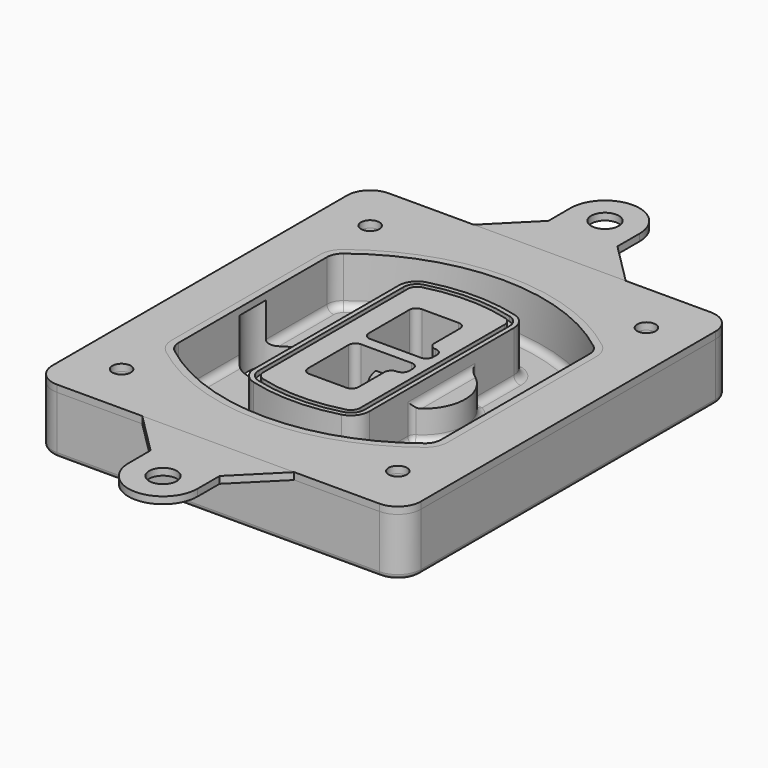
from build123d import *

# Parameters (mm, degrees)
F0_R      = 4
F1_DEPTH  = 25
F2_DEPTH  = 3
F3_DEPTH  = 18
F5_DEPTH  = 21
F6_DEPTH  = 2
F8_DEPTH  = 20
F9_DEPTH  = 16
F10_DEPTH = 25
F7_R      = 6
F7_R_2    = 4
F11_DEPTH = 6
F13_DEPTH = 9
F14_R     = 3
F15_R     = 2
F16_R     = 4
F18_DEPTH = 3
F17_R     = 6


with BuildPart() as f1:
    # F0 (on Top) → F1 (new body)
    with BuildSketch(Plane.XY):
        with BuildLine():
            ThreePointArc((-80, -80), (-77.0710678119, -87.0710678119), (-70, -90))
            Line((-70, -90), (70, -90))
            ThreePointArc((70, -90), (77.0710678119, -87.0710678119), (80, -80))
            Line((80, -80), (80, 80))
            ThreePointArc((80, 80), (77.0710678119, 87.0710678119), (70, 90))
            Line((70, 90), (-70, 90))
            ThreePointArc((-70, 90), (-77.0710678119, 87.0710678119), (-80, 80))
            Line((-80, 80), (-80, -80))
        make_face()
        with Locations((-60, -67.5)):
            Circle(F0_R, mode=Mode.SUBTRACT)
        with Locations((60, -67.5)):
            Circle(F0_R, mode=Mode.SUBTRACT)
        with Locations((-60, 67.5)):
            Circle(F0_R, mode=Mode.SUBTRACT)
        with BuildLine():
            ThreePointArc((-64, 40.2934422872), (-62.5820384798, 46.4328484224), (-58.6153846154, 51.3286200352))
            ThreePointArc((-58.6153846154, 51.3286200352), (0, 71.5), (58.6153846154, 51.3286200352))
            ThreePointArc((58.6153846154, 51.3286200352), (62.5820384798, 46.4328484224), (64, 40.2934422872))
            Line((64, 40.2934422872), (64, -40.2934422872))
            ThreePointArc((64, -40.2934422872), (62.5820384798, -46.4328484224), (58.6153846154, -51.3286200352))
            ThreePointArc((58.6153846154, -51.3286200352), (0, -71.5), (-58.6153846154, -51.3286200352))
            ThreePointArc((-58.6153846154, -51.3286200352), (-62.5820384798, -46.4328484224), (-64, -40.2934422872))
            Line((-64, -40.2934422872), (-64, 40.2934422872))
        make_face(mode=Mode.SUBTRACT)
        with Locations((60, 67.5)):
            Circle(F0_R, mode=Mode.SUBTRACT)
        with BuildLine():
            ThreePointArc((58.6153846154, 51.3286200352), (0, 71.5), (-58.6153846154, 51.3286200352))
            ThreePointArc((-58.6153846154, 51.3286200352), (-62.5820384798, 46.4328484224), (-64, 40.2934422872))
            Line((-64, 40.2934422872), (-64, -40.2934422872))
            ThreePointArc((-64, -40.2934422872), (-62.5820384798, -46.4328484224), (-58.6153846154, -51.3286200352))
            ThreePointArc((-58.6153846154, -51.3286200352), (0, -71.5), (58.6153846154, -51.3286200352))
            ThreePointArc((58.6153846154, -51.3286200352), (62.5820384798, -46.4328484224), (64, -40.2934422872))
            Line((64, -40.2934422872), (64, 40.2934422872))
            ThreePointArc((64, 40.2934422872), (62.5820384798, 46.4328484224), (58.6153846154, 51.3286200352))
        make_face()
        with BuildLine():
            Line((-60, -40.2934422872), (-60, 40.2934422872))
            ThreePointArc((-60, 40.2934422872), (-58.9871703427, 44.6787323838), (-56.1538461538, 48.1757121072))
            ThreePointArc((-56.1538461538, 48.1757121072), (0, 67.5), (56.1538461538, 48.1757121072))
            ThreePointArc((56.1538461538, 48.1757121072), (58.9871703427, 44.6787323838), (60, 40.2934422872))
            Line((60, 40.2934422872), (60, -40.2934422872))
            ThreePointArc((60, -40.2934422872), (58.9871703427, -44.6787323838), (56.1538461538, -48.1757121072))
            ThreePointArc((56.1538461538, -48.1757121072), (0, -67.5), (-56.1538461538, -48.1757121072))
            ThreePointArc((-56.1538461538, -48.1757121072), (-58.9871703427, -44.6787323838), (-60, -40.2934422872))
        make_face(mode=Mode.SUBTRACT)
        with BuildLine():
            ThreePointArc((-56.1538461538, 48.1757121072), (-58.9871703427, 44.6787323838), (-60, 40.2934422872))
            Line((-60, 40.2934422872), (-60, -40.2934422872))
            ThreePointArc((-60, -40.2934422872), (-58.9871703427, -44.6787323838), (-56.1538461538, -48.1757121072))
            ThreePointArc((-56.1538461538, -48.1757121072), (0, -67.5), (56.1538461538, -48.1757121072))
            ThreePointArc((56.1538461538, -48.1757121072), (58.9871703427, -44.6787323838), (60, -40.2934422872))
            Line((60, -40.2934422872), (60, 40.2934422872))
            ThreePointArc((60, 40.2934422872), (58.9871703427, 44.6787323838), (56.1538461538, 48.1757121072))
            ThreePointArc((56.1538461538, 48.1757121072), (0, 67.5), (-56.1538461538, 48.1757121072))
        make_face()
        with BuildLine():
            ThreePointArc((54.3076923077, 45.8110311612), (56.2910192399, 43.3631453548), (57, 40.2934422872))
            Line((57, 40.2934422872), (57, -40.2934422872))
            ThreePointArc((57, -40.2934422872), (56.2910192399, -43.3631453548), (54.3076923077, -45.8110311612))
            ThreePointArc((54.3076923077, -45.8110311612), (0, -64.5), (-54.3076923077, -45.8110311612))
            ThreePointArc((-54.3076923077, -45.8110311612), (-56.2910192399, -43.3631453548), (-57, -40.2934422872))
            Line((-57, -40.2934422872), (-57, 40.2934422872))
            ThreePointArc((-57, 40.2934422872), (-56.2910192399, 43.3631453548), (-54.3076923077, 45.8110311612))
            ThreePointArc((-54.3076923077, 45.8110311612), (0, 64.5), (54.3076923077, 45.8110311612))
        make_face(mode=Mode.SUBTRACT)
        with BuildLine():
            Line((57, -40.2934422872), (57, 40.2934422872))
            ThreePointArc((57, 40.2934422872), (56.2910192399, 43.3631453548), (54.3076923077, 45.8110311612))
            ThreePointArc((54.3076923077, 45.8110311612), (0, 64.5), (-54.3076923077, 45.8110311612))
            ThreePointArc((-54.3076923077, 45.8110311612), (-56.2910192399, 43.3631453548), (-57, 40.2934422872))
            Line((-57, 40.2934422872), (-57, -40.2934422872))
            ThreePointArc((-57, -40.2934422872), (-56.2910192399, -43.3631453548), (-54.3076923077, -45.8110311612))
            ThreePointArc((-54.3076923077, -45.8110311612), (0, -64.5), (54.3076923077, -45.8110311612))
            ThreePointArc((54.3076923077, -45.8110311612), (56.2910192399, -43.3631453548), (57, -40.2934422872))
        make_face()
    extrude(amount=-F1_DEPTH)

    # F0 (on Top) → F2 (join)
    with BuildSketch(Plane.XY):
        with BuildLine():
            ThreePointArc((-56.1538461538, 48.1757121072), (-58.9871703427, 44.6787323838), (-60, 40.2934422872))
            Line((-60, 40.2934422872), (-60, -40.2934422872))
            ThreePointArc((-60, -40.2934422872), (-58.9871703427, -44.6787323838), (-56.1538461538, -48.1757121072))
            ThreePointArc((-56.1538461538, -48.1757121072), (0, -67.5), (56.1538461538, -48.1757121072))
            ThreePointArc((56.1538461538, -48.1757121072), (58.9871703427, -44.6787323838), (60, -40.2934422872))
            Line((60, -40.2934422872), (60, 40.2934422872))
            ThreePointArc((60, 40.2934422872), (58.9871703427, 44.6787323838), (56.1538461538, 48.1757121072))
            ThreePointArc((56.1538461538, 48.1757121072), (0, 67.5), (-56.1538461538, 48.1757121072))
        make_face()
        with BuildLine():
            ThreePointArc((54.3076923077, 45.8110311612), (56.2910192399, 43.3631453548), (57, 40.2934422872))
            Line((57, 40.2934422872), (57, -40.2934422872))
            ThreePointArc((57, -40.2934422872), (56.2910192399, -43.3631453548), (54.3076923077, -45.8110311612))
            ThreePointArc((54.3076923077, -45.8110311612), (0, -64.5), (-54.3076923077, -45.8110311612))
            ThreePointArc((-54.3076923077, -45.8110311612), (-56.2910192399, -43.3631453548), (-57, -40.2934422872))
            Line((-57, -40.2934422872), (-57, 40.2934422872))
            ThreePointArc((-57, 40.2934422872), (-56.2910192399, 43.3631453548), (-54.3076923077, 45.8110311612))
            ThreePointArc((-54.3076923077, 45.8110311612), (0, 64.5), (54.3076923077, 45.8110311612))
        make_face(mode=Mode.SUBTRACT)
    extrude(amount=F2_DEPTH)

    # F0 (on Top) → F3 (cut)
    with BuildSketch(Plane.XY):
        with BuildLine():
            Line((57, -40.2934422872), (57, 40.2934422872))
            ThreePointArc((57, 40.2934422872), (56.2910192399, 43.3631453548), (54.3076923077, 45.8110311612))
            ThreePointArc((54.3076923077, 45.8110311612), (0, 64.5), (-54.3076923077, 45.8110311612))
            ThreePointArc((-54.3076923077, 45.8110311612), (-56.2910192399, 43.3631453548), (-57, 40.2934422872))
            Line((-57, 40.2934422872), (-57, -40.2934422872))
            ThreePointArc((-57, -40.2934422872), (-56.2910192399, -43.3631453548), (-54.3076923077, -45.8110311612))
            ThreePointArc((-54.3076923077, -45.8110311612), (0, -64.5), (54.3076923077, -45.8110311612))
            ThreePointArc((54.3076923077, -45.8110311612), (56.2910192399, -43.3631453548), (57, -40.2934422872))
        make_face()
    extrude(amount=-F3_DEPTH, mode=Mode.SUBTRACT)

    # F4 (on face) → F5 (join, through all)
    with BuildSketch(Plane.XY.offset(3)):
        with BuildLine():
            ThreePointArc((-25, -39.2465276821), (-23.3511545998, -44.1109737193), (-19.0842911877, -46.9702398883))
            ThreePointArc((-19.0842911877, -46.9702398883), (0, -49.5), (19.0842911877, -46.9702398883))
            ThreePointArc((19.0842911877, -46.9702398883), (23.3511545998, -44.1109737193), (25, -39.2465276821))
            Line((25, -39.2465276821), (25, 39.2465276821))
            ThreePointArc((25, 39.2465276821), (23.3511545998, 44.1109737193), (19.0842911877, 46.9702398883))
            ThreePointArc((19.0842911877, 46.9702398883), (0, 49.5), (-19.0842911877, 46.9702398883))
            ThreePointArc((-19.0842911877, 46.9702398883), (-23.3511545998, 44.1109737193), (-25, 39.2465276821))
            Line((-25, 39.2465276821), (-25, -39.2465276821))
        make_face()
        with BuildLine():
            ThreePointArc((18.5632183908, 45.0393118368), (21.7633659499, 42.89486221), (23, 39.2465276821))
            Line((23, 39.2465276821), (23, -39.2465276821))
            ThreePointArc((23, -39.2465276821), (21.7633659499, -42.89486221), (18.5632183908, -45.0393118368))
            ThreePointArc((18.5632183908, -45.0393118368), (0, -47.5), (-18.5632183908, -45.0393118368))
            ThreePointArc((-18.5632183908, -45.0393118368), (-21.7633659499, -42.89486221), (-23, -39.2465276821))
            Line((-23, -39.2465276821), (-23, 39.2465276821))
            ThreePointArc((-23, 39.2465276821), (-21.7633659499, 42.89486221), (-18.5632183908, 45.0393118368))
            ThreePointArc((-18.5632183908, 45.0393118368), (0, 47.5), (18.5632183908, 45.0393118368))
        make_face(mode=Mode.SUBTRACT)
        with BuildLine():
            Line((23, -39.2465276821), (23, 39.2465276821))
            ThreePointArc((23, 39.2465276821), (21.7633659499, 42.89486221), (18.5632183908, 45.0393118368))
            ThreePointArc((18.5632183908, 45.0393118368), (0, 47.5), (-18.5632183908, 45.0393118368))
            ThreePointArc((-18.5632183908, 45.0393118368), (-21.7633659499, 42.89486221), (-23, 39.2465276821))
            Line((-23, 39.2465276821), (-23, -39.2465276821))
            ThreePointArc((-23, -39.2465276821), (-21.7633659499, -42.89486221), (-18.5632183908, -45.0393118368))
            ThreePointArc((-18.5632183908, -45.0393118368), (0, -47.5), (18.5632183908, -45.0393118368))
            ThreePointArc((18.5632183908, -45.0393118368), (21.7633659499, -42.89486221), (23, -39.2465276821))
        make_face()
        with BuildLine():
            ThreePointArc((18.0421455939, 43.1083837852), (20.1755772999, 41.6787507007), (21, 39.2465276821))
            Line((21, 39.2465276821), (21, -39.2465276821))
            ThreePointArc((21, -39.2465276821), (20.1755772999, -41.6787507007), (18.0421455939, -43.1083837852))
            ThreePointArc((18.0421455939, -43.1083837852), (0, -45.5), (-18.0421455939, -43.1083837852))
            ThreePointArc((-18.0421455939, -43.1083837852), (-20.1755772999, -41.6787507007), (-21, -39.2465276821))
            Line((-21, -39.2465276821), (-21, 39.2465276821))
            ThreePointArc((-21, 39.2465276821), (-20.1755772999, 41.6787507007), (-18.0421455939, 43.1083837852))
            ThreePointArc((-18.0421455939, 43.1083837852), (0, 45.5), (18.0421455939, 43.1083837852))
        make_face(mode=Mode.SUBTRACT)
        with BuildLine():
            Line((21, -39.2465276821), (21, 39.2465276821))
            ThreePointArc((21, 39.2465276821), (20.1755772999, 41.6787507007), (18.0421455939, 43.1083837852))
            ThreePointArc((18.0421455939, 43.1083837852), (0, 45.5), (-18.0421455939, 43.1083837852))
            ThreePointArc((-18.0421455939, 43.1083837852), (-20.1755772999, 41.6787507007), (-21, 39.2465276821))
            Line((-21, 39.2465276821), (-21, -39.2465276821))
            ThreePointArc((-21, -39.2465276821), (-20.1755772999, -41.6787507007), (-18.0421455939, -43.1083837852))
            ThreePointArc((-18.0421455939, -43.1083837852), (0, -45.5), (18.0421455939, -43.1083837852))
            ThreePointArc((18.0421455939, -43.1083837852), (20.1755772999, -41.6787507007), (21, -39.2465276821))
        make_face()
        with BuildLine():
            Line((-8, -2.5), (14, -2.5))
            ThreePointArc((14, -2.5), (16.1213203436, -3.3786796564), (17, -5.5))
            Line((17, -5.5), (17, -7.5))
            ThreePointArc((17, -7.5), (16.1213203436, -9.6213203436), (14, -10.5))
            ThreePointArc((14, -10.5), (11.8786796564, -11.3786796564), (11, -13.5))
            Line((11, -13.5), (11, -27.5))
            ThreePointArc((11, -27.5), (10.1213203436, -29.6213203436), (8, -30.5))
            Line((8, -30.5), (-8, -30.5))
            ThreePointArc((-8, -30.5), (-10.1213203436, -29.6213203436), (-11, -27.5))
            Line((-11, -27.5), (-11, -5.5))
            ThreePointArc((-11, -5.5), (-10.1213203436, -3.3786796564), (-8, -2.5))
        make_face(mode=Mode.SUBTRACT)
        with BuildLine():
            ThreePointArc((-8, 2.5), (-10.1213203436, 3.3786796564), (-11, 5.5))
            Line((-11, 5.5), (-11, 27.5))
            ThreePointArc((-11, 27.5), (-10.1213203436, 29.6213203436), (-8, 30.5))
            Line((-8, 30.5), (8, 30.5))
            ThreePointArc((8, 30.5), (10.1213203436, 29.6213203436), (11, 27.5))
            Line((11, 27.5), (11, 13.5))
            ThreePointArc((11, 13.5), (11.8786796564, 11.3786796564), (14, 10.5))
            ThreePointArc((14, 10.5), (16.1213203436, 9.6213203436), (17, 7.5))
            Line((17, 7.5), (17, 5.5))
            ThreePointArc((17, 5.5), (16.1213203436, 3.3786796564), (14, 2.5))
            Line((14, 2.5), (-8, 2.5))
        make_face(mode=Mode.SUBTRACT)
    extrude(amount=-F5_DEPTH)

    # F4 (on face) → F6 (cut)
    with BuildSketch(Plane.XY.offset(3)):
        with BuildLine():
            Line((23, -39.2465276821), (23, 39.2465276821))
            ThreePointArc((23, 39.2465276821), (21.7633659499, 42.89486221), (18.5632183908, 45.0393118368))
            ThreePointArc((18.5632183908, 45.0393118368), (0, 47.5), (-18.5632183908, 45.0393118368))
            ThreePointArc((-18.5632183908, 45.0393118368), (-21.7633659499, 42.89486221), (-23, 39.2465276821))
            Line((-23, 39.2465276821), (-23, -39.2465276821))
            ThreePointArc((-23, -39.2465276821), (-21.7633659499, -42.89486221), (-18.5632183908, -45.0393118368))
            ThreePointArc((-18.5632183908, -45.0393118368), (0, -47.5), (18.5632183908, -45.0393118368))
            ThreePointArc((18.5632183908, -45.0393118368), (21.7633659499, -42.89486221), (23, -39.2465276821))
        make_face()
        with BuildLine():
            ThreePointArc((18.0421455939, 43.1083837852), (20.1755772999, 41.6787507007), (21, 39.2465276821))
            Line((21, 39.2465276821), (21, -39.2465276821))
            ThreePointArc((21, -39.2465276821), (20.1755772999, -41.6787507007), (18.0421455939, -43.1083837852))
            ThreePointArc((18.0421455939, -43.1083837852), (0, -45.5), (-18.0421455939, -43.1083837852))
            ThreePointArc((-18.0421455939, -43.1083837852), (-20.1755772999, -41.6787507007), (-21, -39.2465276821))
            Line((-21, -39.2465276821), (-21, 39.2465276821))
            ThreePointArc((-21, 39.2465276821), (-20.1755772999, 41.6787507007), (-18.0421455939, 43.1083837852))
            ThreePointArc((-18.0421455939, 43.1083837852), (0, 45.5), (18.0421455939, 43.1083837852))
        make_face(mode=Mode.SUBTRACT)
    extrude(amount=-F6_DEPTH, mode=Mode.SUBTRACT)

    # F7 (on face) → F8 (join)
    with BuildSketch(Plane(origin=(0, 0, -25), x_dir=(1, 0, 0), z_dir=(0, 0, -1))):
        with BuildLine():
            ThreePointArc((3.28842436, 0), (16.7567035675, 13.4682792075), (30.224982775, 0))
            Line((30.224982775, 0), (35.224982775, 0))
            ThreePointArc((35.224982775, 0), (16.7567035675, 18.4682792075), (-1.71157564, 0))
            Line((-1.71157564, 0), (3.28842436, 0))
        make_face()
        with BuildLine():
            Line((3.28842436, 0), (30.224982775, 0))
            ThreePointArc((30.224982775, 0), (16.7567035675, 13.4682792075), (3.28842436, 0))
        make_face()
        with BuildLine():
            ThreePointArc((3.28842436, 0), (16.7567035675, -13.4682792075), (30.224982775, 0))
            Line((30.224982775, 0), (3.28842436, 0))
        make_face()
        with BuildLine():
            Line((35.224982775, 0), (30.224982775, 0))
            ThreePointArc((30.224982775, 0), (16.7567035675, -13.4682792075), (3.28842436, 0))
            Line((3.28842436, 0), (-1.71157564, 0))
            ThreePointArc((-1.71157564, 0), (16.7567035675, -18.4682792075), (35.224982775, 0))
        make_face()
    extrude(amount=-F8_DEPTH)

    # F7 (on face) → F9 (cut)
    with BuildSketch(Plane(origin=(0, 0, -25), x_dir=(1, 0, 0), z_dir=(0, 0, -1))):
        with BuildLine():
            Line((3.28842436, 0), (30.224982775, 0))
            ThreePointArc((30.224982775, 0), (16.7567035675, 13.4682792075), (3.28842436, 0))
        make_face()
        with BuildLine():
            ThreePointArc((3.28842436, 0), (16.7567035675, -13.4682792075), (30.224982775, 0))
            Line((30.224982775, 0), (3.28842436, 0))
        make_face()
    extrude(amount=-F9_DEPTH, mode=Mode.SUBTRACT)

    # F7 (on face) → F10 (cut)
    with BuildSketch(Plane(origin=(0, 0, -25), x_dir=(1, 0, 0), z_dir=(0, 0, -1))):
        with BuildLine():
            Line((-59.0318229325, 0), (-32.0952645175, 0))
            ThreePointArc((-32.0952645175, 0), (-45.563543725, 13.4682792075), (-59.0318229325, 0))
        make_face()
        with BuildLine():
            ThreePointArc((-59.0318229325, 0), (-45.563543725, -13.4682792075), (-32.0952645175, 0))
            Line((-32.0952645175, 0), (-59.0318229325, 0))
        make_face()
    extrude(amount=-F10_DEPTH, mode=Mode.SUBTRACT)

    # F7 (on face) → F11 (cut)
    with BuildSketch(Plane(origin=(0, 0, -25), x_dir=(1, 0, 0), z_dir=(0, 0, -1))):
        with Locations((60, -67.5)):
            Circle(F7_R)
        with Locations((60, -67.5)):
            Circle(F7_R_2, mode=Mode.SUBTRACT)
        with Locations((60, -67.5)):
            Circle(F7_R)
        with Locations((60, -67.5)):
            Circle(F7_R_2, mode=Mode.SUBTRACT)
        with Locations((-60, -67.5)):
            Circle(F7_R)
        with Locations((-60, -67.5)):
            Circle(F7_R_2, mode=Mode.SUBTRACT)
        with Locations((-60, -67.5)):
            Circle(F7_R)
        with Locations((-60, -67.5)):
            Circle(F7_R_2, mode=Mode.SUBTRACT)
        with Locations((-60, 67.5)):
            Circle(F7_R)
        with Locations((-60, 67.5)):
            Circle(F7_R_2, mode=Mode.SUBTRACT)
        with Locations((-60, 67.5)):
            Circle(F7_R)
        with Locations((-60, 67.5)):
            Circle(F7_R_2, mode=Mode.SUBTRACT)
        with Locations((60, 67.5)):
            Circle(F7_R)
        with Locations((60, 67.5)):
            Circle(F7_R_2, mode=Mode.SUBTRACT)
        with Locations((60, 67.5)):
            Circle(F7_R)
        with Locations((60, 67.5)):
            Circle(F7_R_2, mode=Mode.SUBTRACT)
    extrude(amount=-F11_DEPTH, mode=Mode.SUBTRACT)

    # F12 (on face) → F13 (cut, through all)
    with BuildSketch(Plane(origin=(0, 0, -9), x_dir=(1, 0, 0), z_dir=(0, 0, -1))):
        with BuildLine():
            Line((11, 13.5), (11, 17.5481537753))
            ThreePointArc((11, 17.5481537753), (2.5696536419, 11.8239143813), (-1.5415842455, 2.5))
            Line((-1.5415842455, 2.5), (3.5224848595, 2.5))
            ThreePointArc((3.5224848595, 2.5), (6.1857188154, 8.3455872281), (11.2536447004, 12.2927168648))
            ThreePointArc((11.2536447004, 12.2927168648), (11.0640958889, 12.8831798879), (11, 13.5))
        make_face()
        with BuildLine():
            ThreePointArc((11.2536447004, -12.2927168648), (6.1857188154, -8.3455872281), (3.5224848595, -2.5))
            Line((3.5224848595, -2.5), (-1.5415842455, -2.5))
            ThreePointArc((-1.5415842455, -2.5), (2.5696536419, -11.8239143813), (11, -17.5481537753))
            Line((11, -17.5481537753), (11, -13.5))
            ThreePointArc((11, -13.5), (11.0640958889, -12.8831798879), (11.2536447004, -12.2927168648))
        make_face()
        with BuildLine():
            ThreePointArc((11.2536447004, 12.2927168648), (6.1857188154, 8.3455872281), (3.5224848595, 2.5))
            Line((3.5224848595, 2.5), (14, 2.5))
            ThreePointArc((14, 2.5), (16.1213203436, 3.3786796564), (17, 5.5))
            Line((17, 5.5), (17, 7.5))
            ThreePointArc((17, 7.5), (16.1213203436, 9.6213203436), (14, 10.5))
            ThreePointArc((14, 10.5), (12.3601599782, 10.9878446101), (11.2536447004, 12.2927168648))
        make_face()
        with BuildLine():
            Line((14, -2.5), (3.5224848595, -2.5))
            ThreePointArc((3.5224848595, -2.5), (6.1857188154, -8.3455872281), (11.2536447004, -12.2927168648))
            ThreePointArc((11.2536447004, -12.2927168648), (12.3601599782, -10.9878446101), (14, -10.5))
            ThreePointArc((14, -10.5), (16.1213203436, -9.6213203436), (17, -7.5))
            Line((17, -7.5), (17, -5.5))
            ThreePointArc((17, -5.5), (16.1213203436, -3.3786796564), (14, -2.5))
        make_face()
    extrude(amount=F13_DEPTH, mode=Mode.SUBTRACT)

    # F14
    f14_edges = [f1.edges().sort_by_distance(p)[0] for p in [
        (-57, -23.703476, -18),
        (-57, 23.703476, -18),
        (25, 0, -5),
        (25, 16.526506, -11.5),
        (25, -16.526506, -11.5),
        (25, -27.886517, -18),
        (35.224983, 0, -18),
    ]]
    fillet(f14_edges, radius=F14_R)

    # F15
    f15_edges = [f1.edges().sort_by_distance(p)[0] for p in [
        (0, -90, -25),
    ]]
    fillet(f15_edges, radius=F15_R)


with BuildPart() as f18:
    # F16 (on face) → F18 (new body, through all)
    with BuildSketch(Plane.XY):
        with BuildLine():
            Line((-80, 80), (-80, -80))
            ThreePointArc((-80, -80), (-77.0710678119, -87.0710678119), (-70, -90))
            Line((-70, -90), (70, -90))
            ThreePointArc((70, -90), (77.0710678119, -87.0710678119), (80, -80))
            Line((80, -80), (80, 80))
            ThreePointArc((80, 80), (77.0710678119, 87.0710678119), (70, 90))
            Line((70, 90), (-70, 90))
            ThreePointArc((-70, 90), (-77.0710678119, 87.0710678119), (-80, 80))
        make_face()
        with Locations((-60, -67.5)):
            Circle(F16_R, mode=Mode.SUBTRACT)
        with Locations((60, -67.5)):
            Circle(F16_R, mode=Mode.SUBTRACT)
        with Locations((-60, 67.5)):
            Circle(F16_R, mode=Mode.SUBTRACT)
        with BuildLine():
            ThreePointArc((-60, 40.2934422872), (-58.9871703427, 44.6787323838), (-56.1538461538, 48.1757121072))
            ThreePointArc((-56.1538461538, 48.1757121072), (0, 67.5), (56.1538461538, 48.1757121072))
            ThreePointArc((56.1538461538, 48.1757121072), (58.9871703427, 44.6787323838), (60, 40.2934422872))
            Line((60, 40.2934422872), (60, -40.2934422872))
            ThreePointArc((60, -40.2934422872), (58.9871703427, -44.6787323838), (56.1538461538, -48.1757121072))
            ThreePointArc((56.1538461538, -48.1757121072), (0, -67.5), (-56.1538461538, -48.1757121072))
            ThreePointArc((-56.1538461538, -48.1757121072), (-58.9871703427, -44.6787323838), (-60, -40.2934422872))
            Line((-60, -40.2934422872), (-60, 40.2934422872))
        make_face(mode=Mode.SUBTRACT)
        with Locations((60, 67.5)):
            Circle(F16_R, mode=Mode.SUBTRACT)
    extrude(amount=F18_DEPTH)


with BuildPart() as f18b:
    # F17 (on face) → F18, piece 2 (new body, through all)
    with BuildSketch(Plane.XY):
        with BuildLine():
            Line((-33, 90), (33, 90))
            Line((33, 90), (15, 108))
            Line((15, 108), (15, 120))
            ThreePointArc((15, 120), (0, 135), (-15, 120))
            Line((-15, 120), (-15, 108))
            Line((-15, 108), (-33, 90))
        make_face()
        with Locations((0, 120)):
            Circle(F17_R, mode=Mode.SUBTRACT)
    extrude(amount=F18_DEPTH)


with BuildPart() as f18c:
    # F17 (on face) → F18, piece 3 (new body, through all)
    with BuildSketch(Plane.XY):
        with BuildLine():
            Line((15, -108), (33, -90))
            Line((33, -90), (-33, -90))
            Line((-33, -90), (-15, -108))
            Line((-15, -108), (-15, -120))
            ThreePointArc((-15, -120), (0, -135), (15, -120))
            Line((15, -120), (15, -108))
        make_face()
        with Locations((0, -120)):
            Circle(F17_R, mode=Mode.SUBTRACT)
    extrude(amount=F18_DEPTH)


solid = Compound([f1.part, f18.part, f18b.part, f18c.part])
